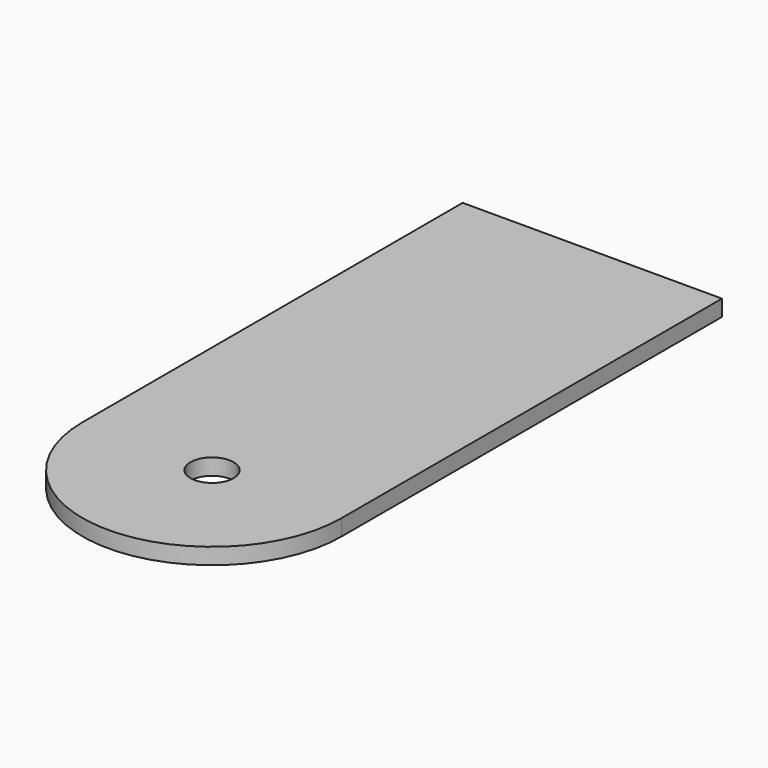
from build123d import *

# Parameters (mm, degrees)
F1_DEPTH = 19.05
F2_R     = 25.4
F3_DEPTH = 78.74


with BuildPart() as f1:
    # F0 (on Top) → F1 (new body)
    with BuildSketch(Plane.XY):
        with BuildLine():
            Line((304.8, 711.2), (0, 711.2))
            Line((0, 711.2), (0, 152.4))
            ThreePointArc((0, 152.4), (152.4, 0), (304.8, 152.4))
            Line((304.8, 152.4), (304.8, 711.2))
        make_face()
    extrude(amount=F1_DEPTH)

    # F2 (on face) → F3 (cut)
    with BuildSketch(Plane.XY.offset(19.05)):
        with Locations((152.4, 152.4)):
            Circle(F2_R)
    extrude(amount=-F3_DEPTH, mode=Mode.SUBTRACT)


solid = f1.part
